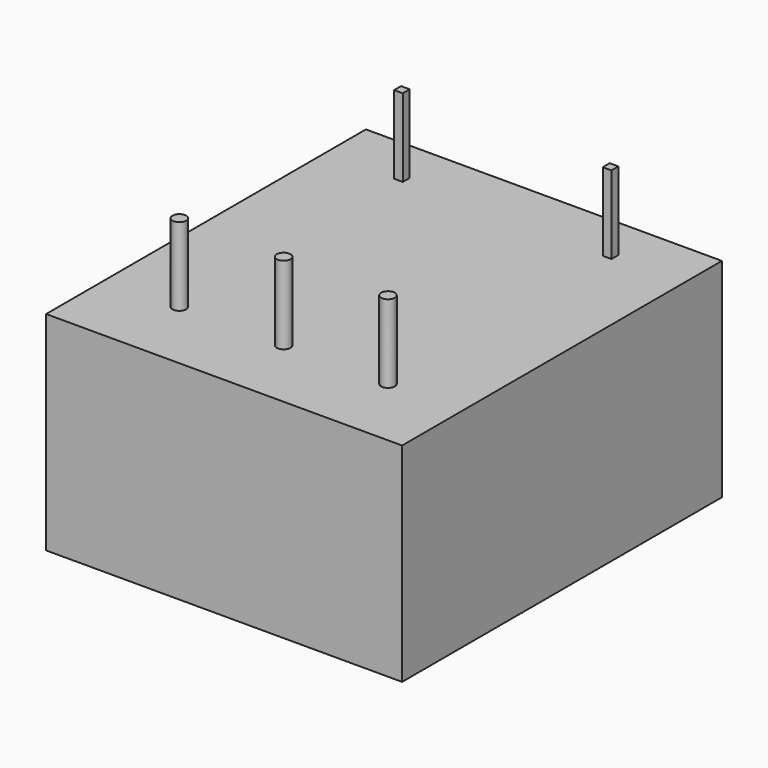
from build123d import *

# Parameters (mm, degrees)
SKETCH_W         = 26
SKETCH_H         = 29.2
EXTRUDE_DEPTH    = 15.2
SKETCH001_R      = 0.5
SKETCH001_W      = 0.635
SKETCH001_H      = 0.635
EXTRUDE001_DEPTH = 5.7


with BuildPart() as extrude_body:
    # Sketch → Extrude (new body)
    with BuildSketch(Plane.XY):
        with Locations((-7.62, -11.16)):
            Rectangle(SKETCH_W, SKETCH_H)
    extrude(amount=-EXTRUDE_DEPTH)


with BuildPart() as fusion:
    # Sketch001 → Extrude001 (new body)
    with BuildSketch(Plane.XY):
        with Locations((-15.24, -20.32)):
            Circle(SKETCH001_R)
        with Locations((-7.62, -20.32)):
            Circle(SKETCH001_R)
        with Locations((0, -20.32)):
            Circle(SKETCH001_R)
        Rectangle(SKETCH001_W, SKETCH001_H)
        with Locations((-15.24, 0)):
            Rectangle(SKETCH001_W, SKETCH001_H)
    extrude(amount=EXTRUDE001_DEPTH)

    # Fusion: union Extrude body
    add(extrude_body.part)


solid = fusion.part
